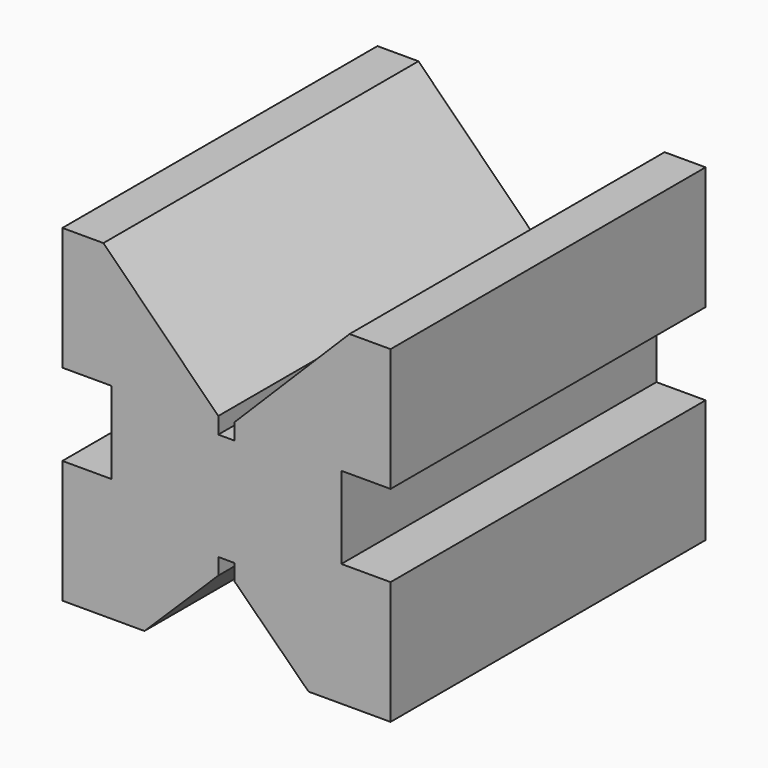
from build123d import *

# Parameters (mm, degrees)
F1_DEPTH = 48


with BuildPart() as f1:
    # F0 (on Front) → F1 (new body)
    with BuildSketch(Plane.XZ):
        Polygon((0, 15), (0, 0), (10, 0), (19, 8.871025), (19, 10.871025), (21, 10.871025), (21, 8.871025), (30, 0), (40, 0), (40, 15), (34, 15), (34, 25), (40, 25), (40, 40), (35, 40), (21, 26), (21, 24), (19, 24), (19, 26), (5, 40), (0, 40), (0, 25), (6, 25), (6, 15), align=None)
    extrude(amount=F1_DEPTH)


solid = f1.part
